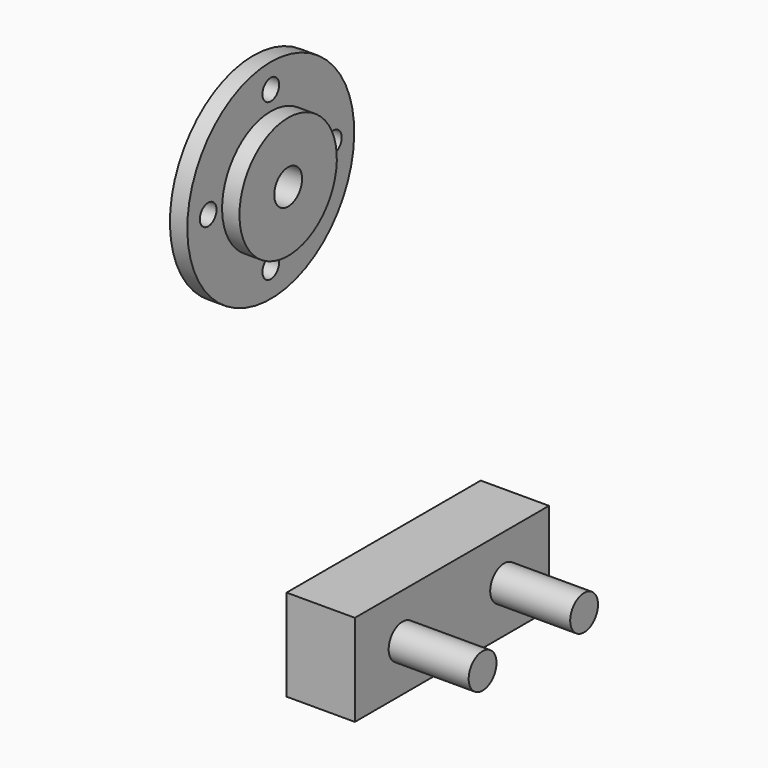
from build123d import *

# Parameters (mm, degrees)
F0_W     = 100
F0_H     = 250
F2_R     = 60
F3_DEPTH = 100.001
F4_R     = 100
F5_R     = 100
F6_DEPTH = 500
F7_W     = 1395.787105
F7_H     = 527.101279
F8_DEPTH = 392.912507


with BuildPart() as f1:
    # F0 (on Front) → F1 (revolve)
    with BuildSketch(Plane.XZ):
        Polygon((-353.088562, 589.839354), (-453.088562, 589.839354), (-453.088562, 89.839354), (-353.088562, 89.839354), (-353.088562, 339.839354), align=None)
        with Locations((-303.088562, 214.839354)):
            Rectangle(F0_W, F0_H)
    revolve(axis=Axis((-324.166805, 0, -10.160646), (1, 0, 0)))

    # F2 (on face) → F3 (cut, through all)
    with BuildSketch(Plane.YZ.offset(-353.088562)):
        with Locations((-450, 0)):
            Circle(F2_R)
        with Locations((0, 450)):
            Circle(F2_R)
        with Locations((0, -450)):
            Circle(F2_R)
        with Locations((450, 0)):
            Circle(F2_R)
    extrude(amount=-F3_DEPTH, mode=Mode.SUBTRACT)


with BuildPart() as f6:
    # F4 (on Right) + F5 (on face) → F6 (new body)
    with BuildSketch(Plane.YZ):
        with Locations((1186.66978, -2403.77543)):
            Circle(F4_R)
    with BuildSketch(Plane.YZ):
        with Locations((456.481487, -2402.169036)):
            Circle(F5_R)
    extrude(amount=F6_DEPTH)


with BuildPart() as f8:
    # F7 (on face) → F8 (new body)
    with BuildSketch(Plane.YZ.offset(-353.088562)):
        with Locations((811.541029, -2407.23288)):
            Rectangle(F7_W, F7_H)
    extrude(amount=F8_DEPTH)


solid = Compound([f1.part, f6.part, f8.part])
